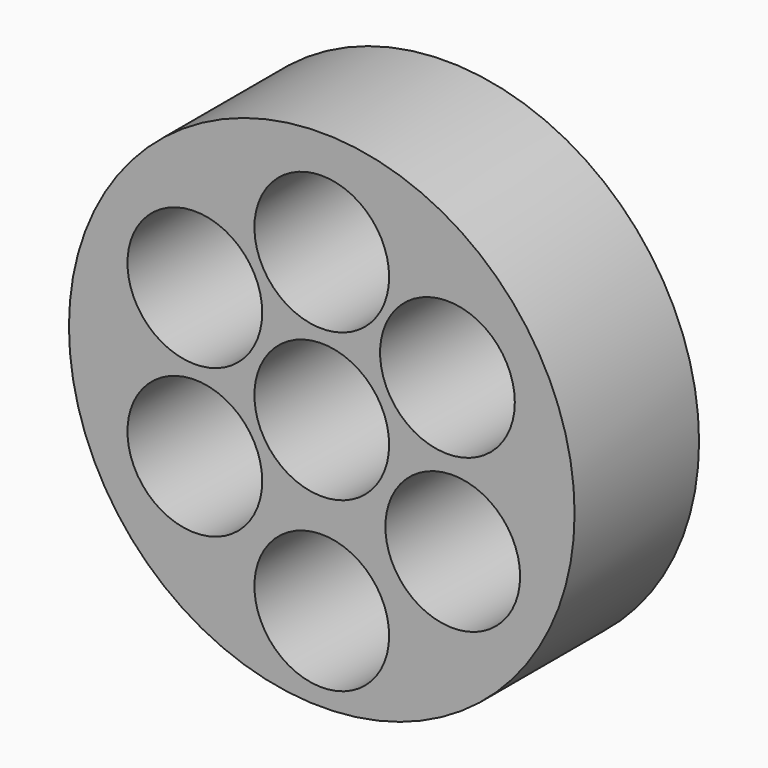
from build123d import *

# Parameters (mm, degrees)
F0_R     = 41.275
F0_R_2   = 10.9982
F1_DEPTH = 25.4


with BuildPart() as f1:
    # F0 (on Front) → F1 (new body)
    with BuildSketch(Plane.XZ):
        Circle(F0_R)
        with Locations((-20.721636, -11.962674)):
            Circle(F0_R_2, mode=Mode.SUBTRACT)
        with Locations((0, -27.447874)):
            Circle(F0_R_2, mode=Mode.SUBTRACT)
        with Locations((21.38141, -11.962674)):
            Circle(F0_R_2, mode=Mode.SUBTRACT)
        with Locations((-20.721636, 12.262576)):
            Circle(F0_R_2, mode=Mode.SUBTRACT)
        Circle(F0_R_2, mode=Mode.SUBTRACT)
        with Locations((20.518694, 12.77579)):
            Circle(F0_R_2, mode=Mode.SUBTRACT)
        with BuildLine():
            ThreePointArc((-2.430999, 34.840291), (0, 35.112324), (2.430999, 34.840291))
            ThreePointArc((2.430999, 34.840291), (8.593516, 30.977935), (10.9982, 24.114124))
            ThreePointArc((10.9982, 24.114124), (-6.86381, 15.520609), (-2.430999, 34.840291))
        make_face(mode=Mode.SUBTRACT)
    extrude(amount=F1_DEPTH)


solid = f1.part
